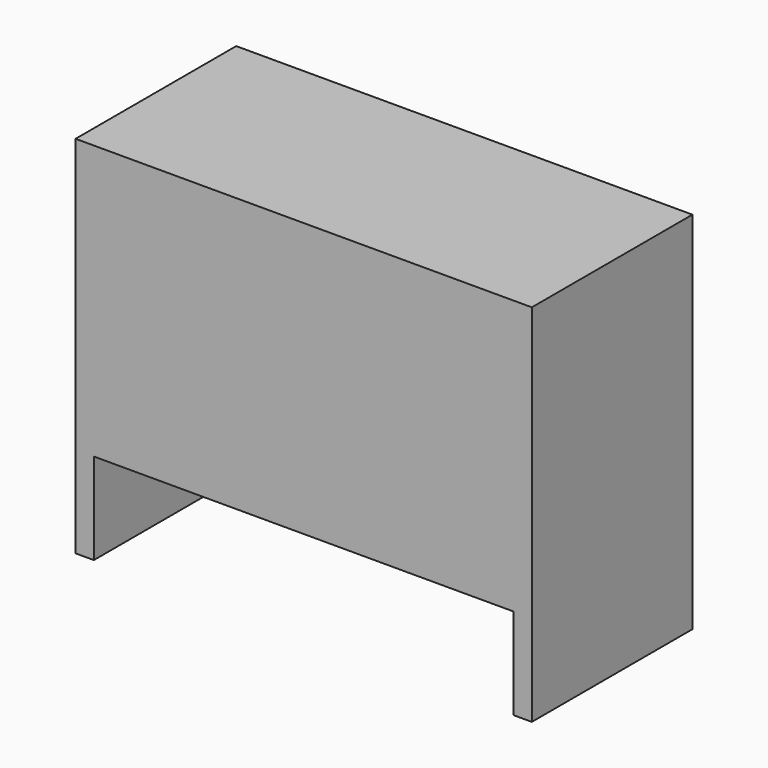
from build123d import *

# Parameters (mm, degrees)
SKETCH008_W     = 125
SKETCH008_H     = 55
PAD008_DEPTH    = 100
SKETCH010_W     = 115
SKETCH010_H     = 25
POCKET_DEPTH    = 60
SKETCH011_W     = 115
SKETCH011_H     = 20
POCKET001_DEPTH = 50
SKETCH012_W     = 115
SKETCH012_H     = 46
POCKET002_DEPTH = 53


with BuildPart() as part:
    # Sketch008 → Pad008 (new body)
    with BuildSketch(Plane.XY):
        Rectangle(SKETCH008_W, SKETCH008_H)
    extrude(amount=PAD008_DEPTH)

    # Sketch010 → Pocket (cut)
    with BuildSketch(Plane(origin=(0, 27.5, 0), x_dir=(-1, 0, 0), z_dir=(0, 1, 0))):
        with Locations((0, 12.5)):
            Rectangle(SKETCH010_W, SKETCH010_H)
    extrude(amount=-POCKET_DEPTH, mode=Mode.SUBTRACT)

    # Sketch011 → Pocket001 (cut)
    with BuildSketch(Plane(origin=(0, 27.5, 0), x_dir=(-1, 0, 0), z_dir=(0, 1, 0))):
        with Locations((0, 35)):
            Rectangle(SKETCH011_W, SKETCH011_H)
    extrude(amount=-POCKET001_DEPTH, mode=Mode.SUBTRACT)

    # Sketch012 → Pocket002 (cut)
    with BuildSketch(Plane(origin=(0, 0, 45), x_dir=(1, 0, 0), z_dir=(0, 0, -1))):
        Rectangle(SKETCH012_W, SKETCH012_H)
    extrude(amount=-POCKET002_DEPTH, mode=Mode.SUBTRACT)


solid = part.part
